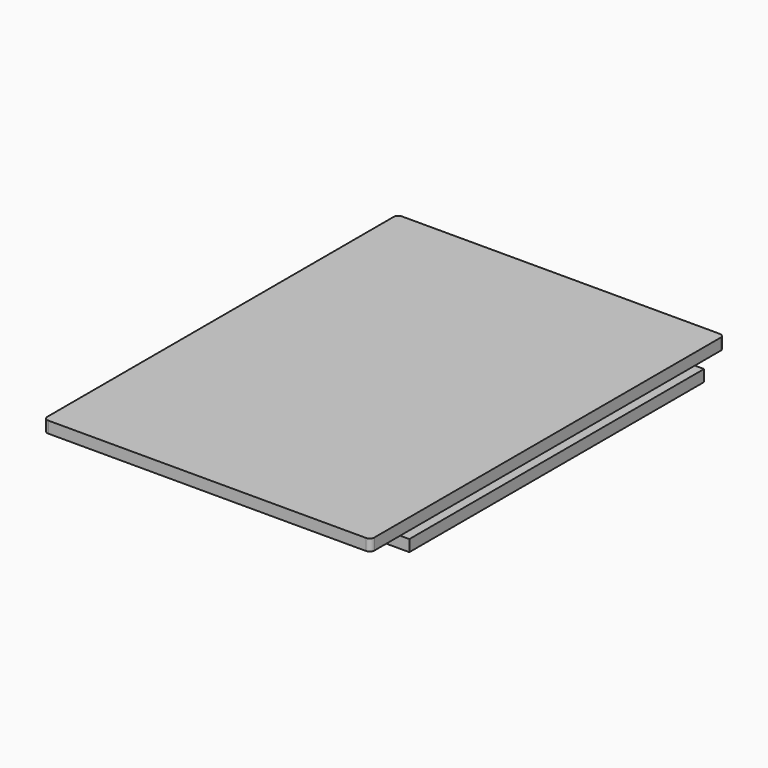
from build123d import *

# Parameters (mm, degrees)
SKETCH006_W      = 75
SKETCH006_H      = 80
EXTRUDE005_DEPTH = 2.5
EXTRUDE006_DEPTH = 2.5


with BuildPart() as extrude005:
    with BuildSketch(Plane.XY.offset(73)):
        Rectangle(SKETCH006_W, SKETCH006_H)
    extrude(amount=EXTRUDE005_DEPTH)


with BuildPart() as fusion:
    with BuildSketch(Plane.XY.offset(78)):
        with BuildLine():
            ThreePointArc((-34.5, 48), (-35.207107, 47.707107), (-35.5, 47))
            Line((-35.5, -47), (-35.5, 47))
            ThreePointArc((-35.5, -47), (-35.207107, -47.707107), (-34.5, -48))
            Line((34.5, -48), (-34.5, -48))
            ThreePointArc((34.5, -48), (35.207107, -47.707107), (35.5, -47))
            Line((35.5, 47), (35.5, -47))
            ThreePointArc((35.5, 47), (35.207107, 47.707107), (34.5, 48))
            Line((-34.5, 48), (34.5, 48))
        make_face()
    extrude(amount=-EXTRUDE006_DEPTH)

    # Fusion: union Extrude005
    add(extrude005.part)


solid = fusion.part
